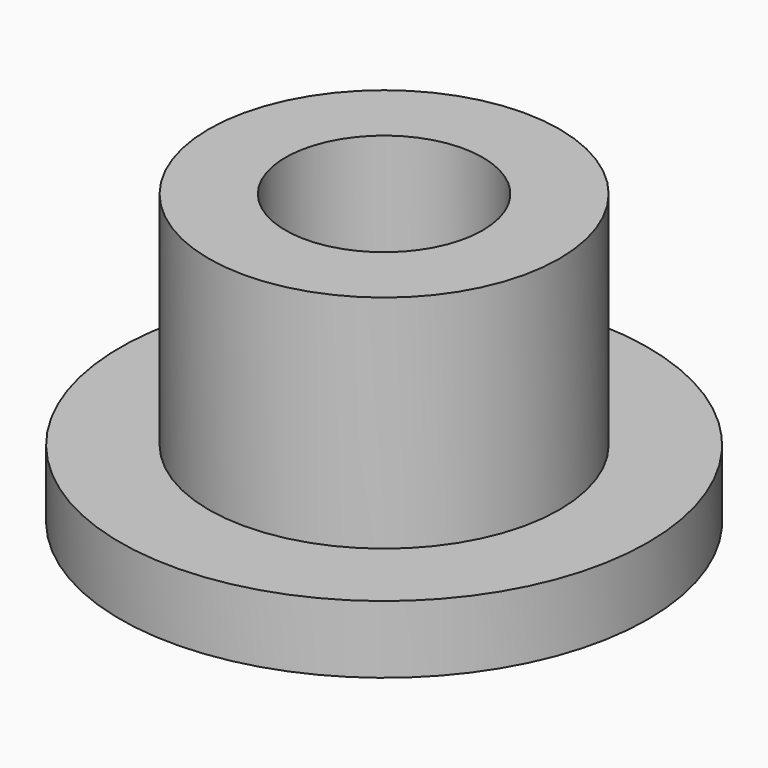
from build123d import *

# Parameters (mm, degrees)
F0_R     = 9.6
F1_DEPTH = 15.8
F2_R     = 5.4
F3_DEPTH = 20
F4_R     = 14.45
F5_DEPTH = 3.7
F6_R     = 5.4
F7_DEPTH = 3.7


with BuildPart() as f1:
    # F0 (on Top) → F1 (new body)
    with BuildSketch(Plane.XY):
        Circle(F0_R)
    extrude(amount=F1_DEPTH)

    # F2 (on Top) → F3 (cut)
    with BuildSketch(Plane.XY):
        Circle(F2_R)
    extrude(amount=F3_DEPTH, mode=Mode.SUBTRACT)

    # F4 (on Top) → F5 (join)
    with BuildSketch(Plane.XY):
        Circle(F4_R)
    extrude(amount=F5_DEPTH)

    # F6 (on Top) → F7 (cut)
    with BuildSketch(Plane.XY):
        Circle(F6_R)
    extrude(amount=F7_DEPTH, mode=Mode.SUBTRACT)


solid = f1.part
